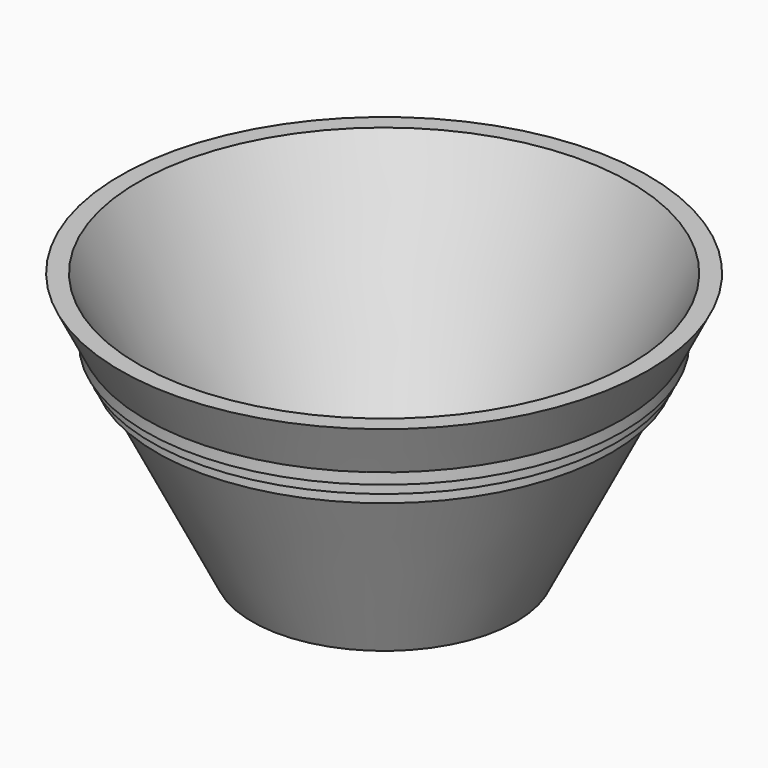
from build123d import *


with BuildPart() as f1:
    # F0 (on Front) → F1 (revolve)
    with BuildSketch(Plane.XZ):
        Polygon((0, 3.0734), (0, 0), (25.4, 0), (42.690365, 34.58073), (43.744465, 36.68893), (44.798565, 38.79713), (45.852665, 40.90533), (50.8, 50.8), (47.363834, 50.8), (23.500534, 3.0734), align=None)
        Polygon((43.744465, 36.68893), (42.690365, 34.58073), (43.744465, 34.58073), align=None)
        Polygon((44.798565, 38.79713), (43.744465, 36.68893), (44.798565, 36.68893), align=None)
        Polygon((45.852665, 40.90533), (44.798565, 38.79713), (45.852665, 38.79713), align=None)
    revolve(axis=Axis((0, 0, 25.4), (0, 0, 1)))


solid = f1.part
